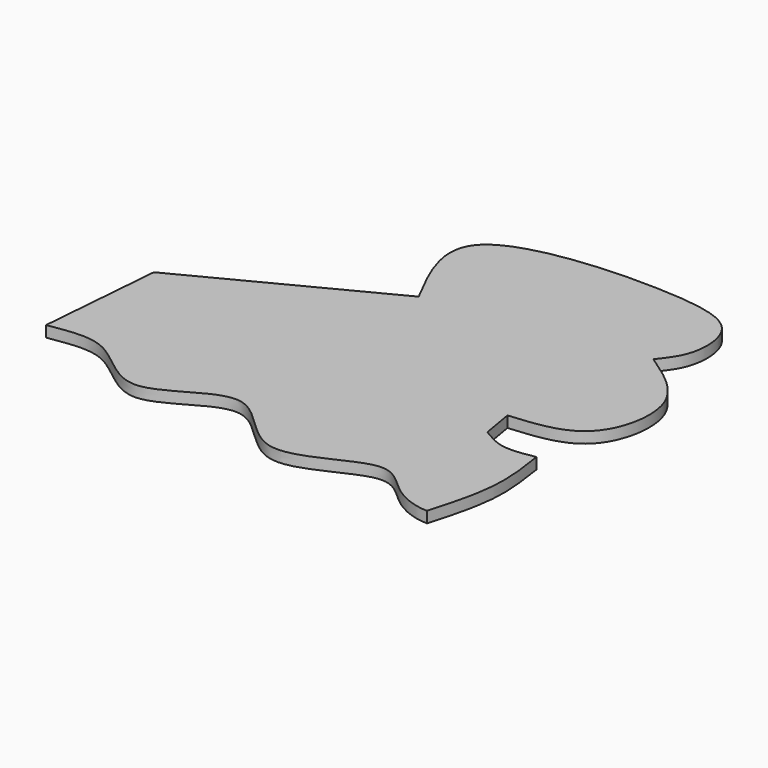
from build123d import *

# Parameters (mm, degrees)
F1_DEPTH = 2


with BuildPart() as f1:
    # F0 (on Top) → F1 (new body)
    with BuildSketch(Plane.XY):
        with BuildLine():
            add(Edge.make_bspline(
                [(-10.3148613125, 14.7780235857), (-13.757962462, 21.3868221353), (-21.8141187465, 36.8500663608), (17.6735994763, 38.7596197412), (30.5208790414, 35.3694339321), (31.1710252188, 25.3206316517), (28.5815453553, 22.0538584546), (27.3740552366, 20.5305423588)],
                knots=[0, 0, 0, 0, 0.225303096, 0.5271634129, 0.7191549461, 0.8690402531, 1, 1, 1, 1], degree=3))
            add(Edge.make_bspline(
                [(-44.036526233, -2.6778969914), (-32.7959712595, 3.140743201), (-21.555416286, 8.9593833933), (-10.3148613125, 14.7780235857)],
                knots=[0, 0, 0, 0, 37.9718296662, 37.9718296662, 37.9718296662, 37.9718296662], degree=3))
            add(Edge.make_bspline(
                [(-45.8217896521, -24.6961582452), (-45.2267018457, -17.3567378273), (-44.6316140393, -10.0173174093), (-44.036526233, -2.6778969914)],
                knots=[0, 0, 0, 0, 22.0905181949, 22.0905181949, 22.0905181949, 22.0905181949], degree=3))
            add(Edge.make_bspline(
                [(31.3413105905, -35.407744348), (28.983457031, -35.3781057688), (23.9362634332, -33.4756556859), (18.2157534983, -25.5354986699), (0.7036295913, -39.991071434), (-9.3522949063, -19.4439330483), (-25.0270395071, -36.1929074352), (-35.0717733322, -22.4713234329), (-42.4105802881, -24.2271250941), (-45.8217896521, -24.6961582452)],
                knots=[0, 0, 0, 0, 0.1132523337, 0.2276253302, 0.3970135149, 0.5568090292, 0.7193390117, 0.8676242837, 1, 1, 1, 1], degree=3))
            add(Edge.make_bspline(
                [(33.1265740097, -12.9927583039), (33.6419487965, -16.3713420426), (34.7209200411, -23.4446308311), (32.5009193618, -31.3029708325), (31.3413105905, -35.407744348)],
                knots=[0, 0, 0, 0, 0.4776538665, 1, 1, 1, 1], degree=3))
            add(Edge.make_bspline(
                [(23.0100788176, -11.4058572799), (24.3947056462, -12.2534930103), (27.2979340781, -14.0307806531), (31.1248277022, -13.349249257), (33.1265740097, -12.9927583039)],
                knots=[0, 0, 0, 0, 0.4769265875, 1, 1, 1, 1], degree=3))
            add(Edge.make_bspline(
                [(22.0182649791, -5.6533380412), (22.348869592, -7.5708444541), (22.6794742048, -9.488350867), (23.0100788176, -11.4058572799)],
                knots=[0, 0, 0, 0, 5.8373943059, 5.8373943059, 5.8373943059, 5.8373943059], degree=3))
            add(Edge.make_bspline(
                [(27.3740552366, 20.5305423588), (31.4162976754, 17.7922240351), (39.4027700611, 12.3819835543), (36.1445163416, -4.455741126), (26.7214526249, -5.2546106738), (22.0182649791, -5.6533380412)],
                knots=[0, 0, 0, 0, 0.3392066009, 0.6701884393, 1, 1, 1, 1], degree=3))
        make_face()
    extrude(amount=F1_DEPTH)


solid = f1.part
